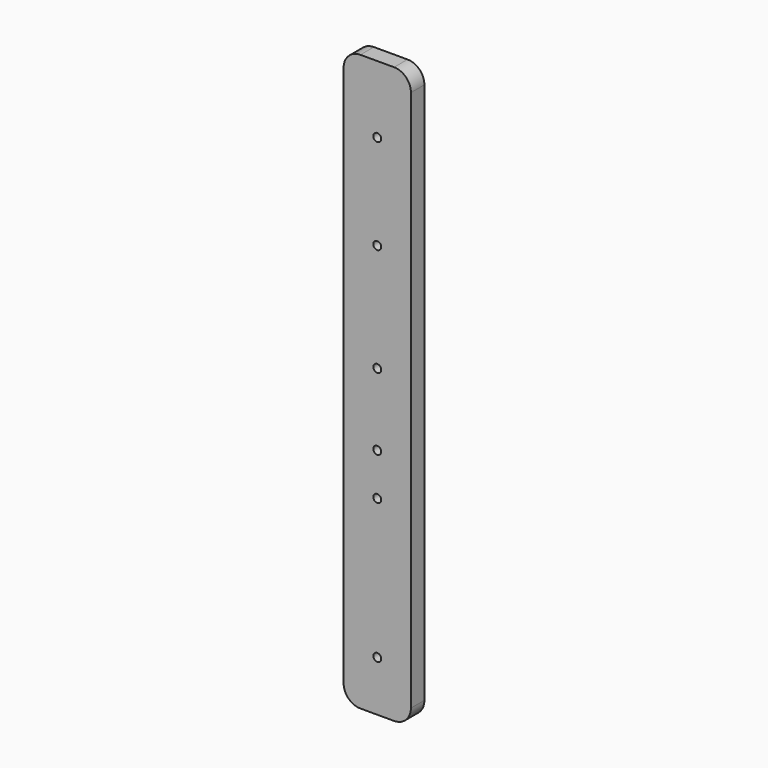
from build123d import *

# Parameters (mm, degrees)
F0_R     = 1.5
F0_R_2   = 1.499997
F1_DEPTH = 6.35


with BuildPart() as f1:
    # F0 (on Front) → F1 (new body)
    with BuildSketch(Plane.XZ):
        with BuildLine():
            Line((6.35, 113.772324), (-6.35, 113.772324))
            ThreePointArc((-6.35, 113.772324), (-10.840128, 111.912452), (-12.7, 107.422324))
            Line((-12.7, 107.422324), (-12.7, -97.047676))
            ThreePointArc((-12.7, -97.047676), (-10.840128, -101.537804), (-6.35, -103.397676))
            Line((-6.35, -103.397676), (6.35, -103.397676))
            ThreePointArc((6.35, -103.397676), (10.840128, -101.537804), (12.7, -97.047676))
            Line((12.7, -97.047676), (12.7, 107.422324))
            ThreePointArc((12.7, 107.422324), (10.840128, 111.912452), (6.35, 113.772324))
        make_face()
        with Locations((0, -84.347676)):
            Circle(F0_R, mode=Mode.SUBTRACT)
        with Locations((0, -31.541076)):
            Circle(F0_R, mode=Mode.SUBTRACT)
        with Locations((0, -15.539076)):
            Circle(F0_R, mode=Mode.SUBTRACT)
        with Locations((0, 11.664324)):
            Circle(F0_R, mode=Mode.SUBTRACT)
        with Locations((0, 52.456724)):
            Circle(F0_R_2, mode=Mode.SUBTRACT)
        with Locations((0, 88.372324)):
            Circle(F0_R, mode=Mode.SUBTRACT)
    extrude(amount=F1_DEPTH)


solid = f1.part
